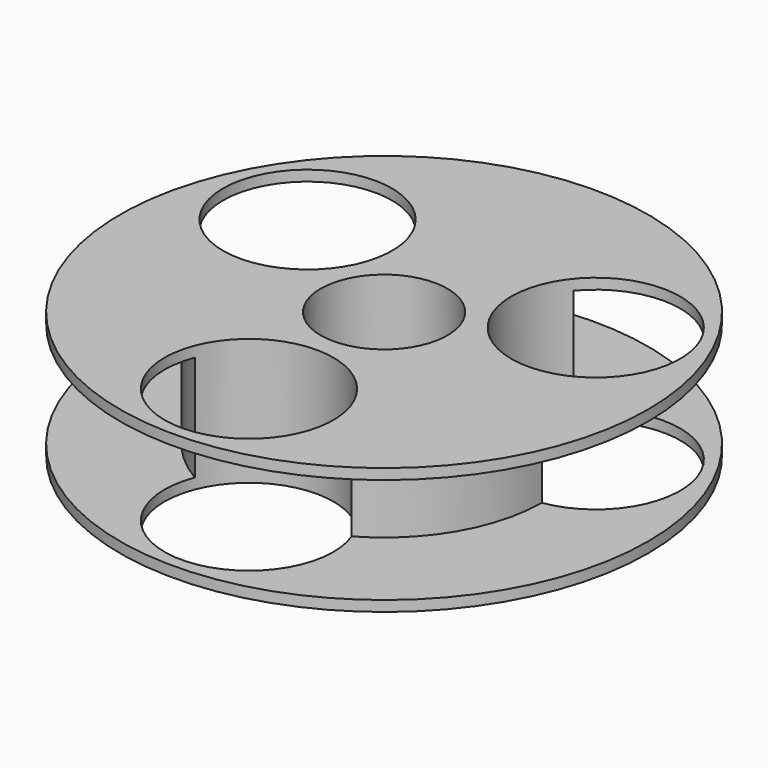
from build123d import *

# Parameters (mm, degrees)
F0_R     = 31.75
F1_DEPTH = 1.27
F2_R     = 19.05
F3_DEPTH = 12.7
F4_R     = 31.75
F5_DEPTH = 1.27
F7_D     = 20.32
F8_D     = 20.32
F9_D     = 20.32
F11_D    = 15.24


with BuildPart() as f1:
    # F0 (on Top) → F1 (new body)
    with BuildSketch(Plane.XY):
        Circle(F0_R)
    extrude(amount=F1_DEPTH)

    # F2 (on face) → F3 (join)
    with BuildSketch(Plane.XY.offset(1.27)):
        Circle(F2_R)
    extrude(amount=F3_DEPTH)

    # F4 (on face) → F5 (join)
    with BuildSketch(Plane.XY.offset(13.97)):
        Circle(F4_R)
    extrude(amount=F5_DEPTH)

    # F7 (through all)
    with Locations(Plane.XY.offset(15.24)):
        with Locations((17.50788, 9.938807)):
            Hole(F7_D / 2)

    # F8 (through all)
    with Locations(Plane.XY.offset(15.24)):
        with Locations((-0.146656, -20.12828)):
            Hole(F8_D / 2)

    # F9 (through all)
    with Locations(Plane.XY.offset(15.24)):
        with Locations((-17.359468, 10.191849)):
            Hole(F9_D / 2)

    # F11 (through all)
    with Locations(Plane.XY.offset(15.24)):
        with Locations((0, 0)):
            Hole(F11_D / 2)


solid = f1.part
